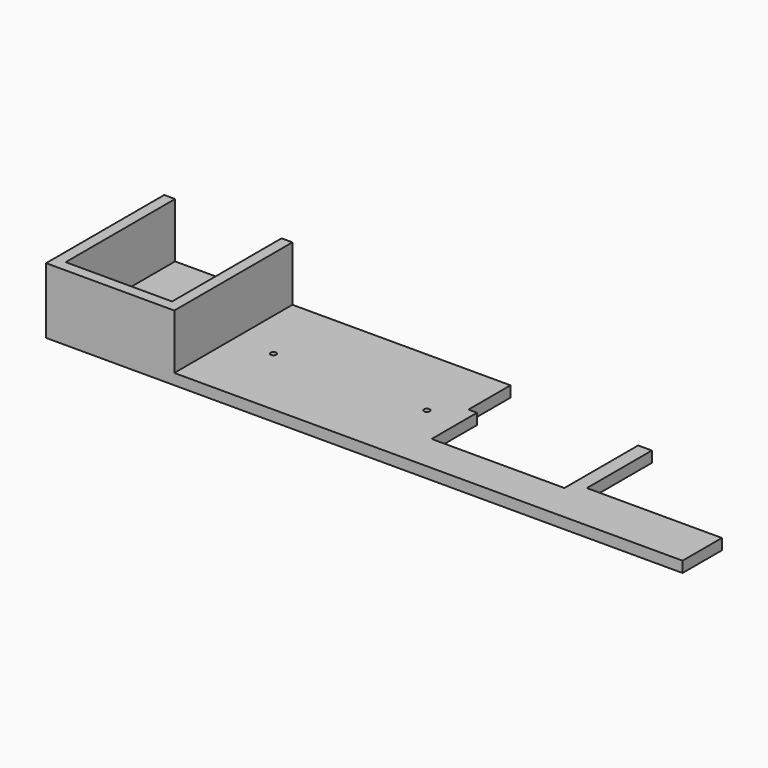
from build123d import *

# Parameters (mm, degrees)
F1_DEPTH = 9.5
F2_W     = 9.5
F2_H     = 119.5
F2_H_2   = 9.5
F2_W_2   = 93
F3_DEPTH = 48
F5_DEPTH = 25.4


with BuildPart() as f1:
    # F0 (on Top) → F1 (new body)
    with BuildSketch(Plane.XY):
        Polygon((0, 129), (0, 0), (556, 0), (556, 43), (438, 43), (438, 114.0399202704), (426, 114.0399202704), (426, 33.5), (310, 33.5), (310, 83.1064879894), (302.5, 83.1064879894), (302.5, 129), align=None)
    extrude(amount=F1_DEPTH)

    # F2 (on face) → F3 (join)
    with BuildSketch(Plane.XY.offset(9.5)):
        with Locations((4.75, 69.25)):
            Rectangle(F2_W, F2_H)
        with Locations((4.75, 4.75)):
            Rectangle(F2_W, F2_H_2)
        with Locations((56, 4.75)):
            Rectangle(F2_W_2, F2_H_2)
        with Locations((107.25, 69.25)):
            Rectangle(F2_W, F2_H)
        with Locations((107.25, 4.75)):
            Rectangle(F2_W, F2_H_2)
    extrude(amount=F3_DEPTH)

    # F4 (on face) → F5 (cut)
    with BuildSketch(Plane.XY.offset(9.5)):
        with BuildLine():
            ThreePointArc((149.5, 64.5), (147, 67), (144.5, 64.5))
            Line((144.5, 64.5), (149.5, 64.5))
        make_face()
        with BuildLine():
            Line((149.5, 64.5), (144.5, 64.5))
            ThreePointArc((144.5, 64.5), (147, 62), (149.5, 64.5))
        make_face()
        with BuildLine():
            Line((283.5, 64.5), (278.5, 64.5))
            ThreePointArc((278.5, 64.5), (281, 62), (283.5, 64.5))
        make_face()
        with BuildLine():
            ThreePointArc((283.5, 64.5), (281, 67), (278.5, 64.5))
            Line((278.5, 64.5), (283.5, 64.5))
        make_face()
    extrude(amount=-F5_DEPTH, mode=Mode.SUBTRACT)


solid = f1.part
